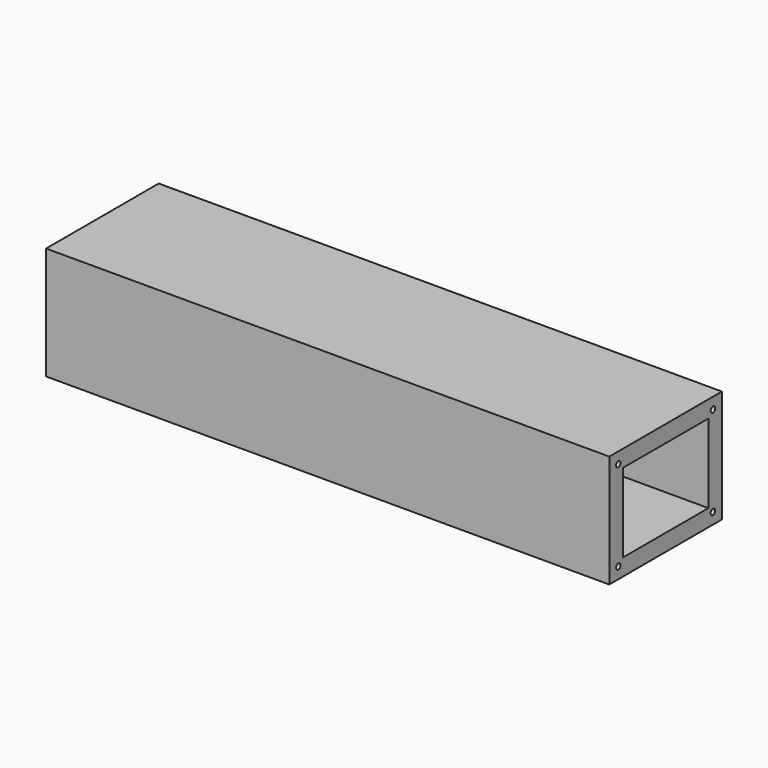
from build123d import *

# Parameters (mm, degrees)
F0_W     = 200
F0_H     = 50
F1_DEPTH = 40
F2_W     = 38
F2_H     = 28
F3_DEPTH = 200.001
F4_R     = 1
F5_DEPTH = 8
F6_R     = 1
F7_DEPTH = 8


with BuildPart() as f1:
    # F0 (on Top) → F1 (new body)
    with BuildSketch(Plane.XY):
        with Locations((40.836534, -29.115389)):
            Rectangle(F0_W, F0_H)
    extrude(amount=F1_DEPTH)

    # F2 (on face) → F3 (cut, through all)
    with BuildSketch(Plane(origin=(-59.163466, 0, 0), x_dir=(0, -1, 0), z_dir=(-1, 0, 0))):
        with Locations((29.115389, 20)):
            Rectangle(F2_W, F2_H)
    extrude(amount=-F3_DEPTH, mode=Mode.SUBTRACT)

    # F4 (on face) → F5 (cut)
    with BuildSketch(Plane(origin=(-59.163466, 0, 0), x_dir=(0, -1, 0), z_dir=(-1, 0, 0))):
        with Locations((8.115389, 36)):
            Circle(F4_R)
        with Locations((8.115389, 4)):
            Circle(F4_R)
        with Locations((50.115389, 4)):
            Circle(F4_R)
        with Locations((50.115389, 36)):
            Circle(F4_R)
    extrude(amount=-F5_DEPTH, mode=Mode.SUBTRACT)

    # F6 (on face) → F7 (cut)
    with BuildSketch(Plane.YZ.offset(140.836534)):
        with Locations((-50.115389, 36)):
            Circle(F6_R)
        with Locations((-8.115389, 36)):
            Circle(F6_R)
        with Locations((-8.115389, 4)):
            Circle(F6_R)
        with Locations((-50.115389, 4)):
            Circle(F6_R)
    extrude(amount=-F7_DEPTH, mode=Mode.SUBTRACT)


solid = f1.part
